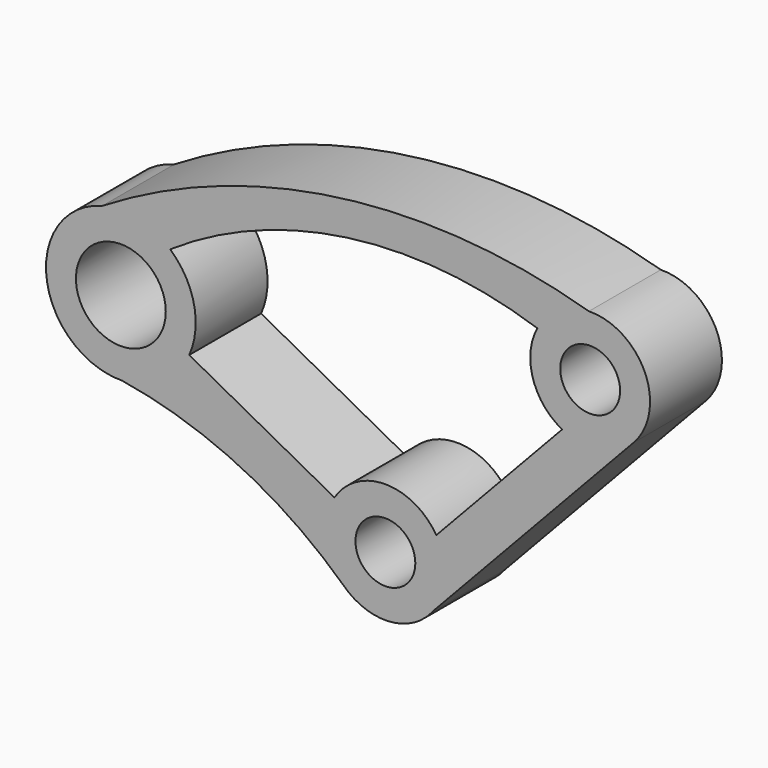
from build123d import *

# Parameters (mm, degrees)
F0_R     = 10
F0_R_2   = 15
F1_DEPTH = 30


with BuildPart() as f1:
    # F0 (on Front) → F1 (new body)
    with BuildSketch(Plane.XZ):
        with BuildLine():
            ThreePointArc((109.316976, 24.209211), (25.73769, 30.451169), (-53.217094, 2.33354))
            ThreePointArc((-53.217094, 2.33354), (-72.004388, -21.504457), (-53.947405, -45.900315))
            ThreePointArc((-53.947405, -45.900315), (-50.29948, -46.343268), (-46.664256, -46.880587))
            ThreePointArc((-46.664256, -46.880587), (-6.989342, -59.457215), (27.326038, -83.009819))
            ThreePointArc((27.326038, -83.009819), (40.829978, -88.731013), (54.6064, -83.701237))
            Line((54.6064, -83.701237), (57.103163, -81.042678))
            Line((57.103163, -81.042678), (124.312537, -9.478002))
            ThreePointArc((124.312537, -9.478002), (128.005245, 12.34695), (109.316976, 24.209211))
        make_face()
        with Locations((41.336713, -68.737433)):
            Circle(F0_R, mode=Mode.SUBTRACT)
        with Locations((-47.007254, -21.88294)):
            Circle(F0_R_2, mode=Mode.SUBTRACT)
        with BuildLine():
            Line((100.365132, -13.456454), (58.339409, -58.206132))
            ThreePointArc((58.339409, -58.206132), (41.336713, -48.737433), (24.334016, -58.206132))
            Line((24.334016, -58.206132), (-24.174588, -32.064757))
            ThreePointArc((-24.174588, -32.064757), (-22.589875, -16.517157), (-30.54705, -3.066413))
            ThreePointArc((-30.54705, -3.066413), (28.816358, 19.623756), (92.084209, 13.62068))
            ThreePointArc((92.084209, 13.62068), (90.608162, -1.635568), (100.365132, -13.456454))
        make_face(mode=Mode.SUBTRACT)
        with Locations((109.733741, 4.213554)):
            Circle(F0_R, mode=Mode.SUBTRACT)
        with BuildLine():
            ThreePointArc((-46.664256, -46.880587), (-50.29948, -46.343268), (-53.947405, -45.900315))
            ThreePointArc((-53.947405, -45.900315), (-50.342046, -46.659524), (-46.664256, -46.880587))
        make_face()
        with BuildLine():
            ThreePointArc((54.6064, -83.701237), (55.915509, -82.428989), (57.103163, -81.042678))
            Line((57.103163, -81.042678), (54.6064, -83.701237))
        make_face()
    extrude(amount=F1_DEPTH)


solid = f1.part
